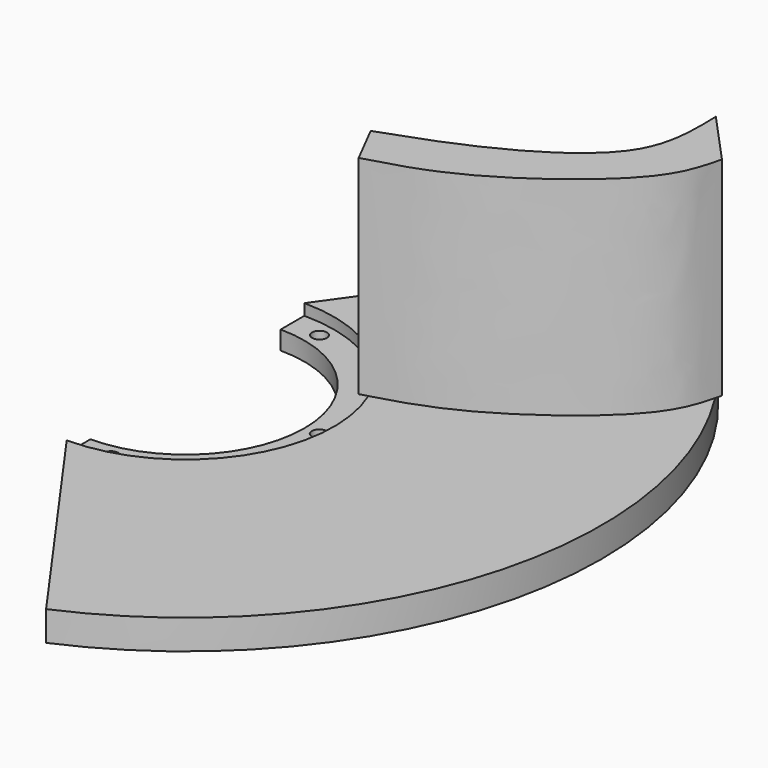
from build123d import *

# Parameters (mm, degrees)
F0_R     = 3.175
F1_DEPTH = 7.9375
F3_DEPTH = 12.7
F6_DEPTH = 88.9


with BuildPart() as f1:
    # F0 (on Top) → F1 (new body)
    with BuildSketch(Plane.XY):
        with BuildLine():
            ThreePointArc((0, 50.8), (50.8, 0), (0, -50.8))
            Line((0, -50.8), (0, -63.5))
            ThreePointArc((0, -63.5), (63.5, 0), (0, 63.5))
            Line((0, 63.5), (0, 50.8))
        make_face()
        with Locations((12.7, -55.7210238599)):
            Circle(F0_R, mode=Mode.SUBTRACT)
        with Locations((12.7, 55.7210238599)):
            Circle(F0_R, mode=Mode.SUBTRACT)
        with Locations((57.15, 0)):
            Circle(F0_R, mode=Mode.SUBTRACT)
    extrude(amount=F1_DEPTH)

    # F2 (on Top) → F3 (join)
    with BuildSketch(Plane.XY):
        with BuildLine():
            ThreePointArc((0, 63.5), (63.5, 0), (0, -63.5))
            Line((0, -63.5), (70.8477284562, -163.0749501689))
            ThreePointArc((70.8477284562, -163.0749501689), (177.8, 0), (70.8477284562, 163.0749501689))
            Line((70.8477284562, 163.0749501689), (0, 63.5))
        make_face()
    extrude(amount=F3_DEPTH)

    # F5 (on offset) → F6 (join)
    with BuildSketch(Plane.XY.offset(12.7)):
        with BuildLine():
            add(Edge.make_bspline(
                [(46.18588835, 41.1815866828), (59.2543137599, 45.7684123204), (86.0798549494, 55.1837838141), (130.6032472575, 83.2102673221), (130.0058690925, 109.2241975175), (129.7313123941, 121.1802735925)],
                knots=[0, 0, 0, 0, 0.3392119344, 0.6962999315, 1, 1, 1, 1], degree=3))
            Line((46.18588835, 41.1815866828), (55.2497804165, 23.447887972))
            add(Edge.make_bspline(
                [(55.2497804165, 23.447887972), (66.8035585634, 26.6415392462), (92.7958853953, 33.8262390606), (144.2666782475, 72.3809452741), (148.8411054612, 91.0665666373), (150.6176739931, 98.3234941959)],
                knots=[0, 0, 0, 0, 0.3286016832, 0.7392492948, 1, 1, 1, 1], degree=3))
            Line((150.6176739931, 98.3234941959), (129.7313123941, 121.1802735925))
        make_face()
    extrude(amount=F6_DEPTH)


solid = f1.part
